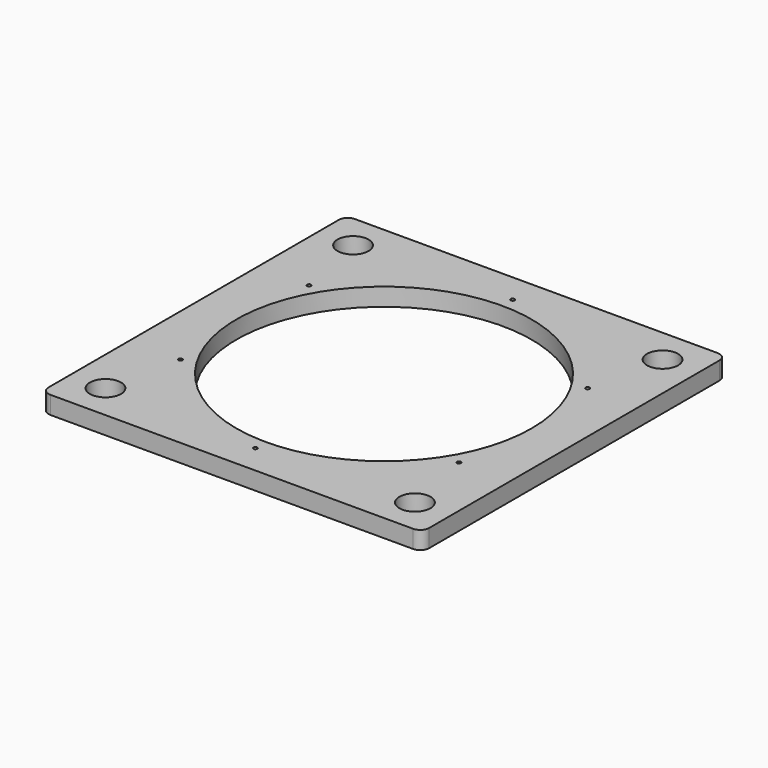
from build123d import *

# Parameters (mm, degrees)
F0_W     = 271.78
F0_H     = 271.78
F1_DEPTH = 12.7
F2_R     = 6.35
F3_R     = 105.41
F4_DEPTH = 25.4
F5_R     = 1.389063
F6_DEPTH = 25.4
F7_R     = 11.1125
F8_DEPTH = 25.4


with BuildPart() as f1:
    # F0 (on Top) → F1 (new body)
    with BuildSketch(Plane.XY):
        Rectangle(F0_W, F0_H)
    extrude(amount=F1_DEPTH)

    # F2
    f2_edges = [f1.edges().sort_by_distance(p)[0] for p in [
        (-135.89, -135.89, 6.35),
        (135.89, -135.89, 6.35),
        (-135.89, 135.89, 6.35),
        (135.89, 135.89, 6.35),
    ]]
    fillet(f2_edges, radius=F2_R)

    # F3 (on face) → F4 (cut)
    with BuildSketch(Plane.XY.offset(12.7)):
        Circle(F3_R)
    extrude(amount=-F4_DEPTH, mode=Mode.SUBTRACT)

    # F5 (on face) → F6 (cut)
    with BuildSketch(Plane.XY.offset(12.7)):
        with Locations((0, 114.808)):
            Circle(F5_R)
        with Locations((99.426645, 57.404)):
            Circle(F5_R)
        with Locations((99.426645, -57.404)):
            Circle(F5_R)
        with Locations((0, -114.808)):
            Circle(F5_R)
        with Locations((-99.426645, -57.404)):
            Circle(F5_R)
        with Locations((-99.426645, 57.404)):
            Circle(F5_R)
    extrude(amount=-F6_DEPTH, mode=Mode.SUBTRACT)

    # F7 (on face) → F8 (cut)
    with BuildSketch(Plane.XY.offset(12.7)):
        with Locations((-110.49, 110.49)):
            Circle(F7_R)
        with Locations((110.49, 110.49)):
            Circle(F7_R)
        with Locations((110.49, -110.49)):
            Circle(F7_R)
        with Locations((-110.49, -110.49)):
            Circle(F7_R)
    extrude(amount=-F8_DEPTH, mode=Mode.SUBTRACT)


solid = f1.part
